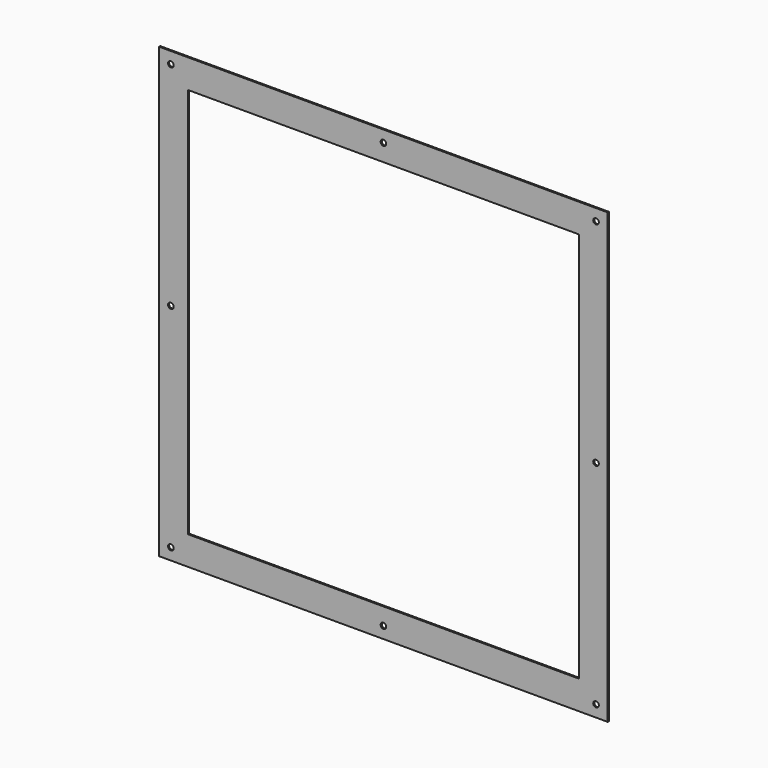
from build123d import *

# Parameters (mm, degrees)
F0_W     = 317.5
F0_H     = 317.5
F0_R     = 1.984375
F0_W_2   = 276.86
F0_H_2   = 276.86
F1_DEPTH = 1


with BuildPart() as f1:
    # F0 (on Front) → F1 (new body)
    with BuildSketch(Plane.XZ):
        Rectangle(F0_W, F0_H)
        with Locations((-150.495, -150.495)):
            Circle(F0_R, mode=Mode.SUBTRACT)
        with Locations((0, -150.495)):
            Circle(F0_R, mode=Mode.SUBTRACT)
        with Locations((150.495, -150.495)):
            Circle(F0_R, mode=Mode.SUBTRACT)
        with Locations((-150.495, 0)):
            Circle(F0_R, mode=Mode.SUBTRACT)
        with Locations((-150.495, 150.495)):
            Circle(F0_R, mode=Mode.SUBTRACT)
        Rectangle(F0_W_2, F0_H_2, mode=Mode.SUBTRACT)
        with Locations((150.495, 0)):
            Circle(F0_R, mode=Mode.SUBTRACT)
        with Locations((0, 150.495)):
            Circle(F0_R, mode=Mode.SUBTRACT)
        with Locations((150.495, 150.495)):
            Circle(F0_R, mode=Mode.SUBTRACT)
    extrude(amount=F1_DEPTH)


solid = f1.part
